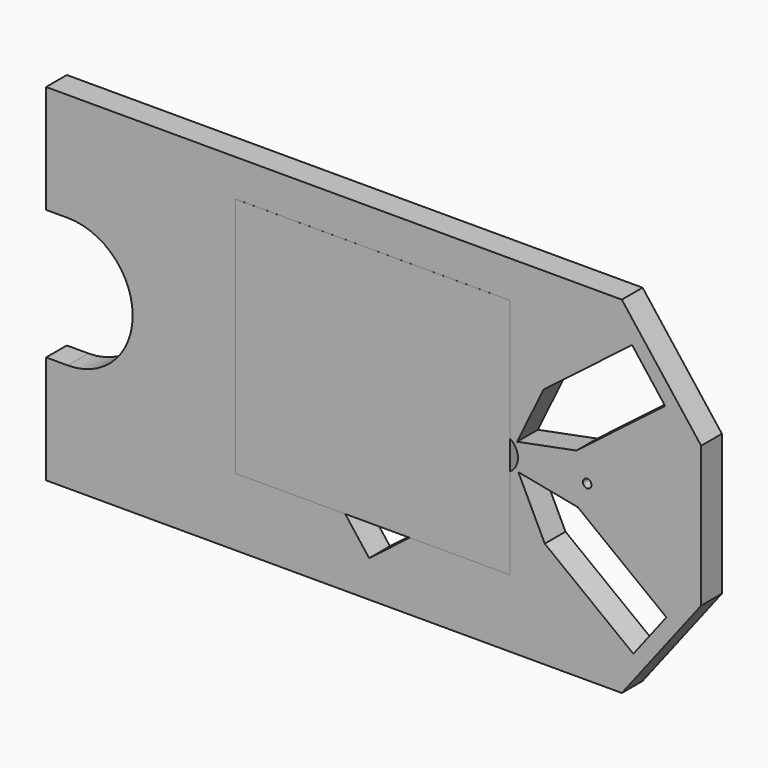
from build123d import *

# Parameters (mm, degrees)
F1_DEPTH = 5.9944
F2_W     = 63.44787
F2_H     = 55.796802
F3_DEPTH = 6


with BuildPart() as f1:
    # F0 (on Front) → F1 (new body)
    with BuildSketch(Plane.XZ):
        with BuildLine():
            Line((-75.664299, -15), (-75.664299, -40))
            Line((-75.664299, -40), (57.335701, -40))
            Line((57.335701, -40), (75.664299, -16.25))
            Line((75.664299, -16.25), (75.664299, 16.25))
            Line((75.664299, 16.25), (57.335701, 40))
            Line((57.335701, 40), (-75.664299, 40))
            Line((-75.664299, 40), (-75.664299, 15))
            Line((-75.664299, 15), (-70.664299, 15))
            ThreePointArc((-70.664299, 15), (-55.664299, 0), (-70.664299, -15))
            Line((-70.664299, -15), (-75.664299, -15))
        make_face()
        Polygon((-1.034672, -31.555564), (-8.655435, -21.647287), (11.819032, -5.899744), (25.537692, -3.233119), (19.439792, -15.80802), align=None, mode=Mode.SUBTRACT)
        with BuildLine():
            ThreePointArc((29.335701, -19), (30.042808, -19.292893), (30.335701, -20))
            ThreePointArc((30.335701, -20), (30.042808, -20.707107), (29.335701, -21))
            ThreePointArc((29.335701, -21), (28.628594, -20.707107), (28.335701, -20))
            ThreePointArc((28.335701, -20), (28.628594, -19.292893), (29.335701, -19))
        make_face(mode=Mode.SUBTRACT)
        Polygon((47.153876, -5.507741), (67.628342, -21.255285), (60.007579, -31.163564), (39.533114, -15.416018), (33.435217, -2.841116), align=None, mode=Mode.SUBTRACT)
        with BuildLine():
            ThreePointArc((9.335701, 1), (10.042808, 0.707107), (10.335701, 0))
            ThreePointArc((10.335701, 0), (10.042808, -0.707107), (9.335701, -1))
            ThreePointArc((9.335701, -1), (8.628594, -0.707107), (8.335701, 0))
            ThreePointArc((8.335701, 0), (8.628594, 0.707107), (9.335701, 1))
        make_face(mode=Mode.SUBTRACT)
        with BuildLine():
            ThreePointArc((29.335701, 4), (32.164128, 2.828427), (33.335701, 0))
            ThreePointArc((33.335701, 0), (32.164128, -2.828427), (29.335701, -4))
            ThreePointArc((29.335701, -4), (26.507274, -2.828427), (25.335701, 0))
            ThreePointArc((25.335701, 0), (26.507274, 2.828427), (29.335701, 4))
        make_face(mode=Mode.SUBTRACT)
        Polygon((19.138292, 15.416017), (25.236189, 2.841115), (11.517529, 5.507737), (-8.956938, 21.255285), (-1.336174, 31.163562), align=None, mode=Mode.SUBTRACT)
        with BuildLine():
            ThreePointArc((49.335701, 1), (50.042808, 0.707107), (50.335701, 0))
            ThreePointArc((50.335701, 0), (50.042808, -0.707107), (49.335701, -1))
            ThreePointArc((49.335701, -1), (48.628594, -0.707107), (48.335701, 0))
            ThreePointArc((48.335701, 0), (48.628594, 0.707107), (49.335701, 1))
        make_face(mode=Mode.SUBTRACT)
        Polygon((67.326836, 21.647284), (46.85237, 5.899744), (33.133711, 3.233117), (39.23161, 15.808018), (59.706075, 31.555563), align=None, mode=Mode.SUBTRACT)
        with BuildLine():
            ThreePointArc((29.335701, 21), (30.042808, 20.707107), (30.335701, 20))
            ThreePointArc((30.335701, 20), (30.042808, 19.292893), (29.335701, 19))
            ThreePointArc((29.335701, 19), (28.628594, 19.292893), (28.335701, 20))
            ThreePointArc((28.335701, 20), (28.628594, 20.707107), (29.335701, 21))
        make_face(mode=Mode.SUBTRACT)
    extrude(amount=F1_DEPTH)


with BuildPart() as f3:
    # F2 (on Front) → F3 (new body)
    with BuildSketch(Plane.XZ):
        with Locations((-0.186611, 3.545616)):
            Rectangle(F2_W, F2_H)
    extrude(amount=F3_DEPTH)


solid = Compound([f1.part, f3.part])
